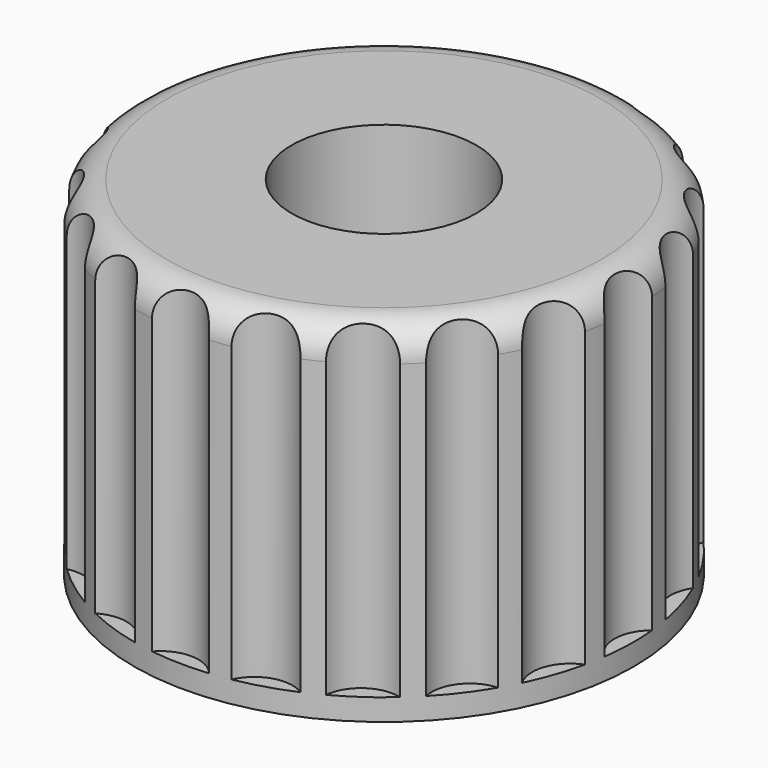
from build123d import *

# Parameters (mm, degrees)
CYLINDER006_R     = 0.35
CYLINDER006_DEPTH = 3
ARRAY_COUNT       = 20
CYLINDER005_R     = 0.85
CYLINDER005_DEPTH = 3.2
CYLINDER002_R     = 2.3
CYLINDER002_DEPTH = 3.2
FILLET002_R       = 0.3


with BuildPart() as array:
    # Cylinder006 → Cylinder006 (new body)
    with BuildSketch(Plane(origin=(2.51021, 16.5511, 26.9), x_dir=(1, 0, 0), z_dir=(0, 0, 1))):
        Circle(CYLINDER006_R)
    extrude(amount=CYLINDER006_DEPTH)

    # Array: Array ×20 about axis
    array_axis = Axis((0, 16.6, 0), (0, 0, 1))


with BuildPart() as array_1:
    add(array.part)
    for i in range(1, ARRAY_COUNT):
        add(array.part.rotate(array_axis, i * 360 / ARRAY_COUNT))


with BuildPart() as cilindro_exterior:
    # Cylinder005 → Cylinder005 (new body)
    with BuildSketch(Plane(origin=(0, 16.6, 26.7), x_dir=(1, 0, 0), z_dir=(0, 0, 1))):
        Circle(CYLINDER005_R)
    extrude(amount=CYLINDER005_DEPTH)


with BuildPart() as eje_engranaje:
    # Cylinder002 → Cylinder002 (new body)
    with BuildSketch(Plane(origin=(0, 16.6, 26.7), x_dir=(1, 0, 0), z_dir=(0, 0, 1))):
        Circle(CYLINDER002_R)
    extrude(amount=CYLINDER002_DEPTH)

    # Cut002: cut Cilindro_exterior
    add(cilindro_exterior.part, mode=Mode.SUBTRACT)

    # Fillet002
    fillet002_edges = [eje_engranaje.edges().sort_by_distance(p)[0] for p in [
        (-2.3, 16.6, 29.9),
    ]]
    fillet(fillet002_edges, radius=FILLET002_R)

    # Cut003: cut Array
    add(array_1.part, mode=Mode.SUBTRACT)


solid = eje_engranaje.part
